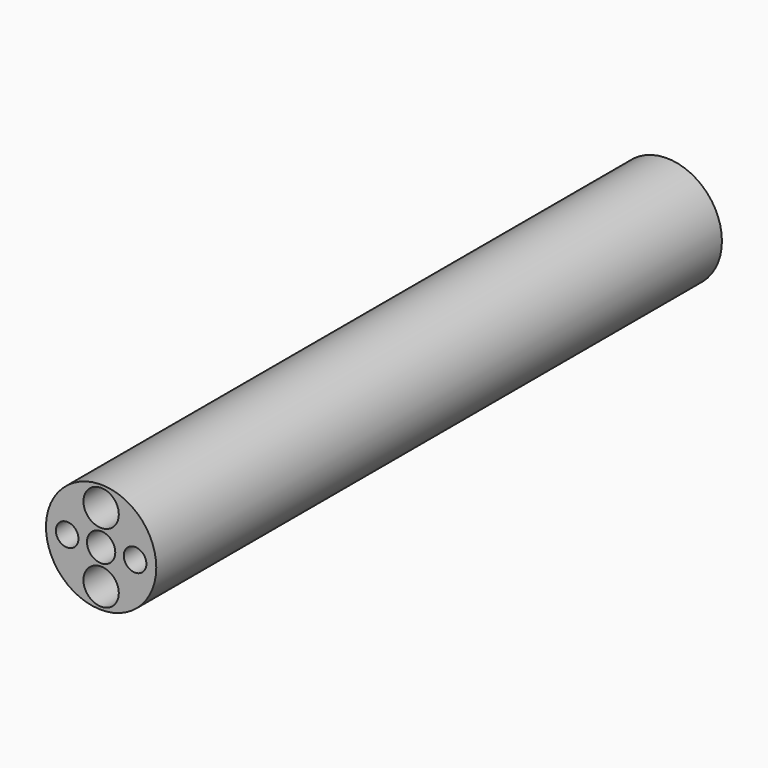
from build123d import *

# Parameters (mm, degrees)
F0_R     = 1.9812
F0_R_2   = 0.635
F0_R_3   = 0.4064
F0_R_4   = 0.508
F1_DEPTH = 25.4


with BuildPart() as f1:
    # F0 (on Front) → F1 (new body)
    with BuildSketch(Plane.XZ):
        Circle(F0_R)
        with Locations((0, -1.2446)):
            Circle(F0_R_2, mode=Mode.SUBTRACT)
        with Locations((-1.220472, 0)):
            Circle(F0_R_3, mode=Mode.SUBTRACT)
        Circle(F0_R_4, mode=Mode.SUBTRACT)
        with Locations((1.220472, 0)):
            Circle(F0_R_3, mode=Mode.SUBTRACT)
        with Locations((0, 1.2446)):
            Circle(F0_R_2, mode=Mode.SUBTRACT)
    extrude(amount=F1_DEPTH)


solid = f1.part
